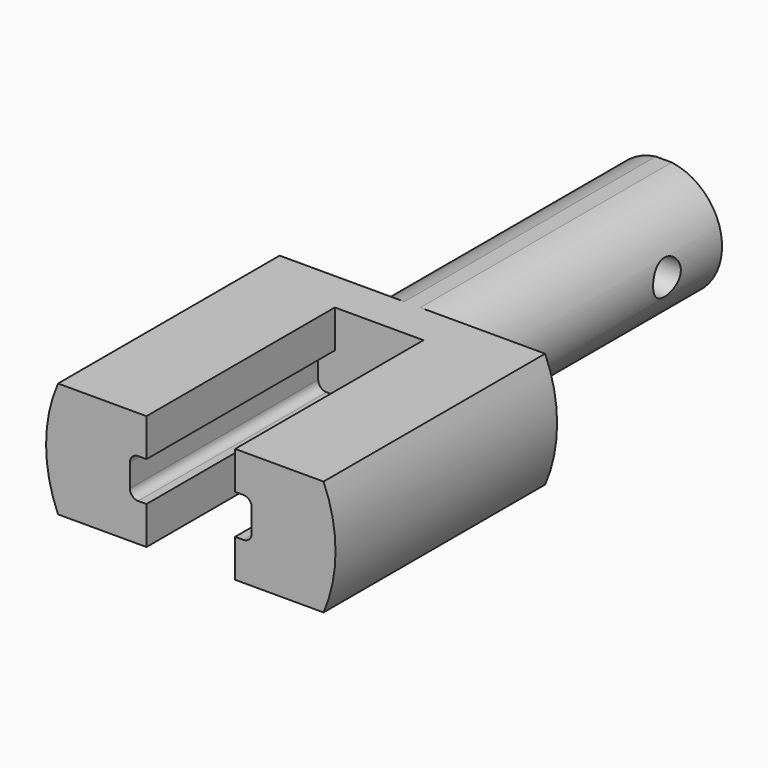
from build123d import *

# Parameters (mm, degrees)
F0_R           = 5.334
F1_DEPTH       = 28.829
F2_R           = 13.271737
F3_DEPTH       = 25.4
F4_W           = 26.543474
F4_H           = 10.5664
F5_DEPTH       = 54.229
F6_W           = 8.128
F6_H           = 10.5664
F7_DEPTH       = 21.59
F9_DEPTH       = 21.59
F10_DEPTH      = 21.59
F11_R          = 1.5875
F12_DEPTH      = 5.334
F12_DEPTH_BACK = 5.334


with BuildPart() as f1:
    # F0 (on Front) → F1 (new body)
    with BuildSketch(Plane.XZ):
        Circle(F0_R)
    extrude(amount=F1_DEPTH)

    # F2 (on face) → F3 (join)
    with BuildSketch(Plane.XZ.offset(28.829)):
        Circle(F2_R)
    extrude(amount=F3_DEPTH)

    # F4 (on face) → F5 (intersect, through all)
    with BuildSketch(Plane.XZ.offset(54.229)):
        Rectangle(F4_W, F4_H)
    extrude(amount=-F5_DEPTH, mode=Mode.INTERSECT)

    # F6 (on face) → F7 (cut)
    with BuildSketch(Plane.XZ.offset(54.229)):
        Rectangle(F6_W, F6_H)
    extrude(amount=-F7_DEPTH, mode=Mode.SUBTRACT)

    # F8 (on face) → F9 (cut)
    with BuildSketch(Plane.XZ.offset(54.229)):
        with BuildLine():
            Line((4.826, 1.812324), (-4.826, 1.812324))
            ThreePointArc((-4.826, 1.812324), (-5.364815, 1.58914), (-5.588, 1.050324))
            Line((-5.588, 1.050324), (-5.588, -1.050324))
            ThreePointArc((-5.588, -1.050324), (-5.364815, -1.58914), (-4.826, -1.812324))
            Line((-4.826, -1.812324), (4.826, -1.812324))
            ThreePointArc((4.826, -1.812324), (5.364815, -1.58914), (5.588, -1.050324))
            Line((5.588, -1.050324), (5.588, 1.050324))
            ThreePointArc((5.588, 1.050324), (5.364815, 1.58914), (4.826, 1.812324))
        make_face()
    extrude(amount=-F9_DEPTH, mode=Mode.SUBTRACT)

    # F8 (on face) → F10 (cut)
    with BuildSketch(Plane.XZ.offset(54.229)):
        with BuildLine():
            Line((4.826, 1.812324), (-4.826, 1.812324))
            ThreePointArc((-4.826, 1.812324), (-5.364815, 1.58914), (-5.588, 1.050324))
            Line((-5.588, 1.050324), (-5.588, -1.050324))
            ThreePointArc((-5.588, -1.050324), (-5.364815, -1.58914), (-4.826, -1.812324))
            Line((-4.826, -1.812324), (4.826, -1.812324))
            ThreePointArc((4.826, -1.812324), (5.364815, -1.58914), (5.588, -1.050324))
            Line((5.588, -1.050324), (5.588, 1.050324))
            ThreePointArc((5.588, 1.050324), (5.364815, 1.58914), (4.826, 1.812324))
        make_face()
    extrude(amount=-F10_DEPTH, mode=Mode.SUBTRACT)

    # F11 (on Right) → F12 (cut, two sides)
    with BuildSketch(Plane.YZ) as f12_sk:
        with Locations((-6.3119, 0)):
            Circle(F11_R)
    extrude(amount=F12_DEPTH, mode=Mode.SUBTRACT)
    extrude(f12_sk.sketch, amount=-F12_DEPTH_BACK, mode=Mode.SUBTRACT)


solid = f1.part
